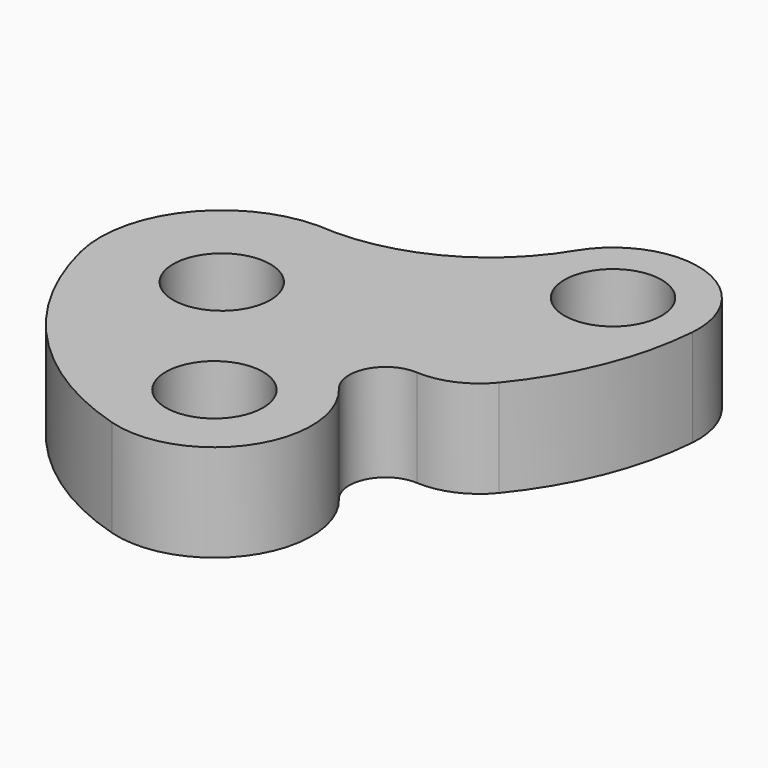
from build123d import *

# Parameters (mm, degrees)
F0_R     = 10
F1_DEPTH = 20


with BuildPart() as f1:
    # F0 (on Top) → F1 (new body)
    with BuildSketch(Plane.XY):
        with BuildLine():
            ThreePointArc((37.544429, 44.087402), (21.48788, 29.202057), (0, 25))
            ThreePointArc((0, 25), (-19.664959, 15.436625), (-24.284847, -5.93685))
            ThreePointArc((-24.284847, -5.93685), (-9.512511, -33.001447), (16.750607, -49.155795))
            ThreePointArc((16.750607, -49.155795), (39.169931, -41.050494), (37.904534, -17.244596))
            ThreePointArc((37.904534, -17.244596), (36.990811, -9.071889), (44.120823, -4.974213))
            ThreePointArc((44.120823, -4.974213), (51.030762, -3.734261), (56.619703, 0.514089))
            ThreePointArc((56.619703, 0.514089), (65.792763, 16.032989), (69.941986, 33.576228))
            ThreePointArc((69.941986, 33.576228), (57.900626, 51.645817), (37.544429, 44.087402))
        make_face()
        Circle(F0_R, mode=Mode.SUBTRACT)
        with Locations((22.5, -30)):
            Circle(F0_R, mode=Mode.SUBTRACT)
        with Locations((52.5, 35)):
            Circle(F0_R, mode=Mode.SUBTRACT)
    extrude(amount=F1_DEPTH)


solid = f1.part
